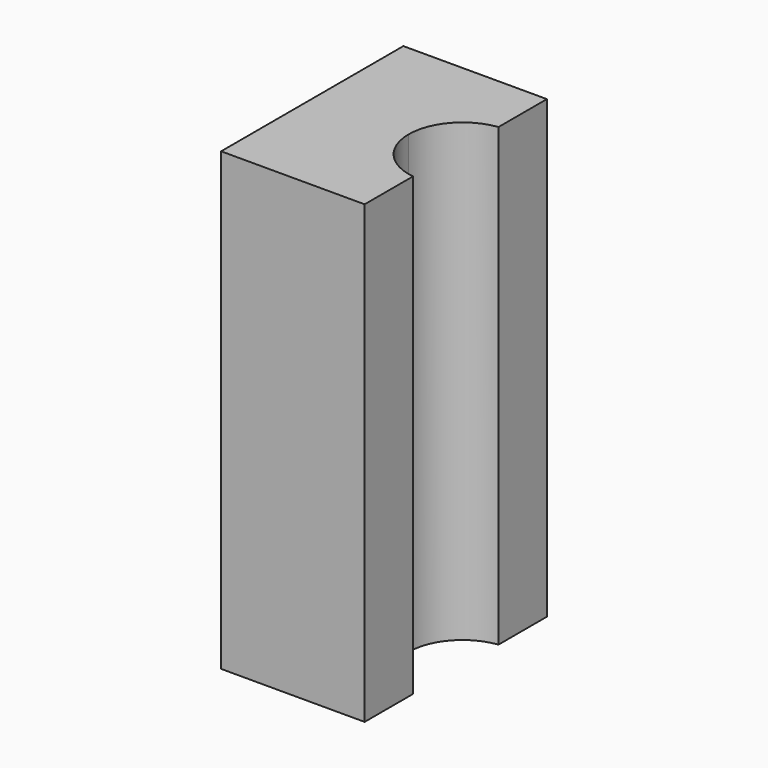
from build123d import *

# Parameters (mm, degrees)
F1_DEPTH = 25.4


with BuildPart() as f1:
    # F0 (on Top) → F1 (new body)
    with BuildSketch(Plane.XY):
        with BuildLine():
            Line((-2.625, 0), (-8, 0))
            Line((-8, 0), (-8, -6.35))
            Line((-8, -6.35), (0, -6.35))
            Line((0, -6.35), (0, -2.97647))
            ThreePointArc((0, -2.97647), (-1.875, -1.984313), (-2.625, 0))
        make_face()
        with BuildLine():
            Line((0, 6.35), (-8, 6.35))
            Line((-8, 6.35), (-8, 0))
            Line((-8, 0), (-2.625, 0))
            ThreePointArc((-2.625, 0), (-1.875, 1.984313), (0, 2.97647))
            Line((0, 2.97647), (0, 6.35))
        make_face()
    extrude(amount=F1_DEPTH)


solid = f1.part
